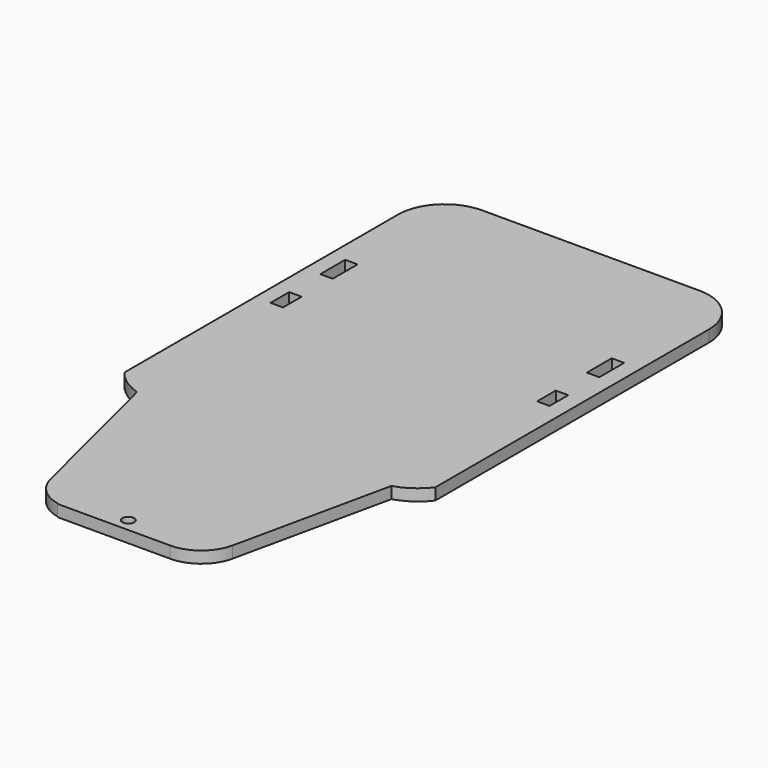
from build123d import *

# Parameters (mm, degrees)
F0_W     = 20.32
F0_H     = 50.8
F1_DEPTH = 19.05
F2_DEPTH = 19.05
F3_DEPTH = 19.05


with BuildPart() as f1:
    # F0 (on Top) → F1 (new body)
    with BuildSketch(Plane.XY):
        Polygon((-242.4599993661, 535.0964056902), (-318.6599993661, 535.0964056902), (-318.6599993661, 331.8964056902), (-293.2599993661, 331.8964056902), (-293.2599993661, 369.9964056902), (-272.9399993661, 369.9964056902), (-272.9399993661, 331.8964056902), (-242.4599993661, 331.8964056902), (-242.4599993661, 369.9964056902), align=None)
        with Locations((-283.0999993661, 458.8964056902)):
            Rectangle(F0_W, F0_H, mode=Mode.SUBTRACT)
        with BuildLine():
            Line((-64.6599993661, 535.0964056902), (-242.4599993661, 535.0964056902))
            Line((-242.4599993661, 535.0964056902), (-242.4599993661, 369.9964056902))
            Line((-242.4599993661, 369.9964056902), (-242.4599993661, 331.8964056902))
            Line((-242.4599993661, 331.8964056902), (-272.9399993661, 331.8964056902))
            Line((-272.9399993661, 331.8964056902), (-293.2599993661, 331.8964056902))
            Line((-293.2599993661, 331.8964056902), (-318.6599993661, 331.8964056902))
            Line((-318.6599993661, 331.8964056902), (-318.6599993661, 65.1964056902))
            ThreePointArc((-318.6599993661, 65.1964056902), (-298.0708378663, 45.5374634714), (-272.4446494724, 33.1404457322))
            Line((-272.4446494724, 33.1404457322), (-208.2693964249, -223.5605664576))
            ThreePointArc((-208.2693964249, -223.5605664576), (-190.125501362, -254.4571248379), (-158.1446494724, -270.6133422236))
            ThreePointArc((-158.1446494724, -270.6133422236), (-152.4287869516, -271.3974603653), (-146.6653476657, -271.6595542678))
            Line((-146.6653476657, -271.6595542678), (-120.0446494724, -271.6595542678))
            Line((-120.0446494724, -271.6595542678), (-59.7196494724, -271.6595542678))
            Line((-59.7196494724, -271.6595542678), (0.6053505276, -271.6595542678))
            Line((0.6053505276, -271.6595542678), (25.6361325915, -271.6595542678))
            ThreePointArc((25.6361325915, -271.6595542678), (65.4793211523, -257.6041730378), (87.6843615354, -221.6601944351))
            Line((87.6843615354, -221.6601944351), (143.1246507402, 33.1404457322))
            ThreePointArc((143.1246507402, 33.1404457322), (168.7508391341, 45.5374634714), (189.3400006339, 65.1964056902))
            Line((189.3400006339, 65.1964056902), (189.3400006339, 331.8964056902))
            Line((189.3400006339, 331.8964056902), (163.9400006339, 331.8964056902))
            Line((163.9400006339, 331.8964056902), (162.6700006339, 331.8964056902))
            Line((162.6700006339, 331.8964056902), (142.3500006339, 331.8964056902))
            Line((142.3500006339, 331.8964056902), (113.1400006339, 331.8964056902))
            Line((113.1400006339, 331.8964056902), (113.1400006339, 369.9964056902))
            Line((113.1400006339, 369.9964056902), (113.1400006339, 535.0964056902))
            Line((113.1400006339, 535.0964056902), (-64.6599993661, 535.0964056902))
        make_face()
        with BuildLine():
            ThreePointArc((-50.1946494724, -250.4539787769), (-52.9844573816, -257.1891708677), (-59.7196494724, -259.9789787769))
            ThreePointArc((-59.7196494724, -259.9789787769), (-66.4548415632, -243.7187866861), (-50.1946494724, -250.4539787769))
        make_face(mode=Mode.SUBTRACT)
        Polygon((189.3400006339, 535.0964056902), (113.1400006339, 535.0964056902), (113.1400006339, 369.9964056902), (113.1400006339, 331.8964056902), (142.3500006339, 331.8964056902), (142.3500006339, 369.9964056902), (162.6700006339, 369.9964056902), (162.6700006339, 331.8964056902), (163.9400006339, 331.8964056902), (189.3400006339, 331.8964056902), align=None)
        with Locations((152.5100006339, 458.8964056902)):
            Rectangle(F0_W, F0_H, mode=Mode.SUBTRACT)
        Polygon((-242.4599993661, 535.0964056902), (-318.6599993661, 535.0964056902), (-318.6599993661, 331.8964056902), (-293.2599993661, 331.8964056902), (-293.2599993661, 369.9964056902), (-272.9399993661, 369.9964056902), (-272.9399993661, 331.8964056902), (-242.4599993661, 331.8964056902), (-242.4599993661, 369.9964056902), align=None)
        with Locations((-283.0999993661, 458.8964056902)):
            Rectangle(F0_W, F0_H, mode=Mode.SUBTRACT)
        Polygon((189.3400006339, 535.0964056902), (113.1400006339, 535.0964056902), (113.1400006339, 369.9964056902), (113.1400006339, 331.8964056902), (142.3500006339, 331.8964056902), (142.3500006339, 369.9964056902), (162.6700006339, 369.9964056902), (162.6700006339, 331.8964056902), (163.9400006339, 331.8964056902), (189.3400006339, 331.8964056902), align=None)
        with Locations((152.5100006339, 458.8964056902)):
            Rectangle(F0_W, F0_H, mode=Mode.SUBTRACT)
    extrude(amount=F1_DEPTH)

    # F0 (on Top) → F2 (join)
    with BuildSketch(Plane.XY):
        with BuildLine():
            Line((-318.6599993661, 623.9964056902), (-318.6599993661, 535.0964056902))
            Line((-318.6599993661, 535.0964056902), (-242.4599993661, 535.0964056902))
            Line((-242.4599993661, 535.0964056902), (-64.6599993661, 535.0964056902))
            Line((-64.6599993661, 535.0964056902), (113.1400006339, 535.0964056902))
            Line((113.1400006339, 535.0964056902), (189.3400006339, 535.0964056902))
            Line((189.3400006339, 535.0964056902), (189.3400006339, 623.9964056902))
            ThreePointArc((189.3400006339, 623.9964056902), (167.0215373603, 677.8779424166), (113.1400006339, 700.1964056902))
            Line((113.1400006339, 700.1964056902), (-242.4599993661, 700.1964056902))
            ThreePointArc((-242.4599993661, 700.1964056902), (-296.3415360925, 677.8779424166), (-318.6599993661, 623.9964056902))
        make_face()
        Polygon((-242.4599993661, 535.0964056902), (-318.6599993661, 535.0964056902), (-318.6599993661, 331.8964056902), (-293.2599993661, 331.8964056902), (-293.2599993661, 369.9964056902), (-272.9399993661, 369.9964056902), (-272.9399993661, 331.8964056902), (-242.4599993661, 331.8964056902), (-242.4599993661, 369.9964056902), align=None)
        with Locations((-283.0999993661, 458.8964056902)):
            Rectangle(F0_W, F0_H, mode=Mode.SUBTRACT)
        with BuildLine():
            Line((-64.6599993661, 535.0964056902), (-242.4599993661, 535.0964056902))
            Line((-242.4599993661, 535.0964056902), (-242.4599993661, 369.9964056902))
            Line((-242.4599993661, 369.9964056902), (-242.4599993661, 331.8964056902))
            Line((-242.4599993661, 331.8964056902), (-272.9399993661, 331.8964056902))
            Line((-272.9399993661, 331.8964056902), (-293.2599993661, 331.8964056902))
            Line((-293.2599993661, 331.8964056902), (-318.6599993661, 331.8964056902))
            Line((-318.6599993661, 331.8964056902), (-318.6599993661, 65.1964056902))
            ThreePointArc((-318.6599993661, 65.1964056902), (-298.0708378663, 45.5374634714), (-272.4446494724, 33.1404457322))
            Line((-272.4446494724, 33.1404457322), (-208.2693964249, -223.5605664576))
            ThreePointArc((-208.2693964249, -223.5605664576), (-190.125501362, -254.4571248379), (-158.1446494724, -270.6133422236))
            ThreePointArc((-158.1446494724, -270.6133422236), (-152.4287869516, -271.3974603653), (-146.6653476657, -271.6595542678))
            Line((-146.6653476657, -271.6595542678), (-120.0446494724, -271.6595542678))
            Line((-120.0446494724, -271.6595542678), (-59.7196494724, -271.6595542678))
            Line((-59.7196494724, -271.6595542678), (0.6053505276, -271.6595542678))
            Line((0.6053505276, -271.6595542678), (25.6361325915, -271.6595542678))
            ThreePointArc((25.6361325915, -271.6595542678), (65.4793211523, -257.6041730378), (87.6843615354, -221.6601944351))
            Line((87.6843615354, -221.6601944351), (143.1246507402, 33.1404457322))
            ThreePointArc((143.1246507402, 33.1404457322), (168.7508391341, 45.5374634714), (189.3400006339, 65.1964056902))
            Line((189.3400006339, 65.1964056902), (189.3400006339, 331.8964056902))
            Line((189.3400006339, 331.8964056902), (163.9400006339, 331.8964056902))
            Line((163.9400006339, 331.8964056902), (162.6700006339, 331.8964056902))
            Line((162.6700006339, 331.8964056902), (142.3500006339, 331.8964056902))
            Line((142.3500006339, 331.8964056902), (113.1400006339, 331.8964056902))
            Line((113.1400006339, 331.8964056902), (113.1400006339, 369.9964056902))
            Line((113.1400006339, 369.9964056902), (113.1400006339, 535.0964056902))
            Line((113.1400006339, 535.0964056902), (-64.6599993661, 535.0964056902))
        make_face()
        with BuildLine():
            ThreePointArc((-50.1946494724, -250.4539787769), (-52.9844573816, -257.1891708677), (-59.7196494724, -259.9789787769))
            ThreePointArc((-59.7196494724, -259.9789787769), (-66.4548415632, -243.7187866861), (-50.1946494724, -250.4539787769))
        make_face(mode=Mode.SUBTRACT)
        Polygon((189.3400006339, 535.0964056902), (113.1400006339, 535.0964056902), (113.1400006339, 369.9964056902), (113.1400006339, 331.8964056902), (142.3500006339, 331.8964056902), (142.3500006339, 369.9964056902), (162.6700006339, 369.9964056902), (162.6700006339, 331.8964056902), (163.9400006339, 331.8964056902), (189.3400006339, 331.8964056902), align=None)
        with Locations((152.5100006339, 458.8964056902)):
            Rectangle(F0_W, F0_H, mode=Mode.SUBTRACT)
        with BuildLine():
            ThreePointArc((-146.6653476657, -271.6595542678), (-152.4287869516, -271.3974603653), (-158.1446494724, -270.6133422236))
            Line((-158.1446494724, -270.6133422236), (-158.1446494724, -271.6595542678))
            Line((-158.1446494724, -271.6595542678), (-146.6653476657, -271.6595542678))
        make_face()
    extrude(amount=F2_DEPTH)

    # F0 (on Top) → F3 (join)
    with BuildSketch(Plane.XY):
        with BuildLine():
            Line((-318.6599993661, 623.9964056902), (-318.6599993661, 535.0964056902))
            Line((-318.6599993661, 535.0964056902), (-242.4599993661, 535.0964056902))
            Line((-242.4599993661, 535.0964056902), (-64.6599993661, 535.0964056902))
            Line((-64.6599993661, 535.0964056902), (113.1400006339, 535.0964056902))
            Line((113.1400006339, 535.0964056902), (189.3400006339, 535.0964056902))
            Line((189.3400006339, 535.0964056902), (189.3400006339, 623.9964056902))
            ThreePointArc((189.3400006339, 623.9964056902), (167.0215373603, 677.8779424166), (113.1400006339, 700.1964056902))
            Line((113.1400006339, 700.1964056902), (-242.4599993661, 700.1964056902))
            ThreePointArc((-242.4599993661, 700.1964056902), (-296.3415360925, 677.8779424166), (-318.6599993661, 623.9964056902))
        make_face()
        Polygon((-242.4599993661, 535.0964056902), (-318.6599993661, 535.0964056902), (-318.6599993661, 331.8964056902), (-293.2599993661, 331.8964056902), (-293.2599993661, 369.9964056902), (-272.9399993661, 369.9964056902), (-272.9399993661, 331.8964056902), (-242.4599993661, 331.8964056902), (-242.4599993661, 369.9964056902), align=None)
        with Locations((-283.0999993661, 458.8964056902)):
            Rectangle(F0_W, F0_H, mode=Mode.SUBTRACT)
        with BuildLine():
            Line((-64.6599993661, 535.0964056902), (-242.4599993661, 535.0964056902))
            Line((-242.4599993661, 535.0964056902), (-242.4599993661, 369.9964056902))
            Line((-242.4599993661, 369.9964056902), (-242.4599993661, 331.8964056902))
            Line((-242.4599993661, 331.8964056902), (-272.9399993661, 331.8964056902))
            Line((-272.9399993661, 331.8964056902), (-293.2599993661, 331.8964056902))
            Line((-293.2599993661, 331.8964056902), (-318.6599993661, 331.8964056902))
            Line((-318.6599993661, 331.8964056902), (-318.6599993661, 65.1964056902))
            ThreePointArc((-318.6599993661, 65.1964056902), (-298.0708378663, 45.5374634714), (-272.4446494724, 33.1404457322))
            Line((-272.4446494724, 33.1404457322), (-208.2693964249, -223.5605664576))
            ThreePointArc((-208.2693964249, -223.5605664576), (-190.125501362, -254.4571248379), (-158.1446494724, -270.6133422236))
            ThreePointArc((-158.1446494724, -270.6133422236), (-152.4287869516, -271.3974603653), (-146.6653476657, -271.6595542678))
            Line((-146.6653476657, -271.6595542678), (-120.0446494724, -271.6595542678))
            Line((-120.0446494724, -271.6595542678), (-59.7196494724, -271.6595542678))
            Line((-59.7196494724, -271.6595542678), (0.6053505276, -271.6595542678))
            Line((0.6053505276, -271.6595542678), (25.6361325915, -271.6595542678))
            ThreePointArc((25.6361325915, -271.6595542678), (65.4793211523, -257.6041730378), (87.6843615354, -221.6601944351))
            Line((87.6843615354, -221.6601944351), (143.1246507402, 33.1404457322))
            ThreePointArc((143.1246507402, 33.1404457322), (168.7508391341, 45.5374634714), (189.3400006339, 65.1964056902))
            Line((189.3400006339, 65.1964056902), (189.3400006339, 331.8964056902))
            Line((189.3400006339, 331.8964056902), (163.9400006339, 331.8964056902))
            Line((163.9400006339, 331.8964056902), (162.6700006339, 331.8964056902))
            Line((162.6700006339, 331.8964056902), (142.3500006339, 331.8964056902))
            Line((142.3500006339, 331.8964056902), (113.1400006339, 331.8964056902))
            Line((113.1400006339, 331.8964056902), (113.1400006339, 369.9964056902))
            Line((113.1400006339, 369.9964056902), (113.1400006339, 535.0964056902))
            Line((113.1400006339, 535.0964056902), (-64.6599993661, 535.0964056902))
        make_face()
        with BuildLine():
            ThreePointArc((-50.1946494724, -250.4539787769), (-52.9844573816, -257.1891708677), (-59.7196494724, -259.9789787769))
            ThreePointArc((-59.7196494724, -259.9789787769), (-66.4548415632, -243.7187866861), (-50.1946494724, -250.4539787769))
        make_face(mode=Mode.SUBTRACT)
        Polygon((189.3400006339, 535.0964056902), (113.1400006339, 535.0964056902), (113.1400006339, 369.9964056902), (113.1400006339, 331.8964056902), (142.3500006339, 331.8964056902), (142.3500006339, 369.9964056902), (162.6700006339, 369.9964056902), (162.6700006339, 331.8964056902), (163.9400006339, 331.8964056902), (189.3400006339, 331.8964056902), align=None)
        with Locations((152.5100006339, 458.8964056902)):
            Rectangle(F0_W, F0_H, mode=Mode.SUBTRACT)
        with BuildLine():
            ThreePointArc((-146.6653476657, -271.6595542678), (-152.4287869516, -271.3974603653), (-158.1446494724, -270.6133422236))
            Line((-158.1446494724, -270.6133422236), (-158.1446494724, -271.6595542678))
            Line((-158.1446494724, -271.6595542678), (-146.6653476657, -271.6595542678))
        make_face()
    extrude(amount=F3_DEPTH)


solid = f1.part
